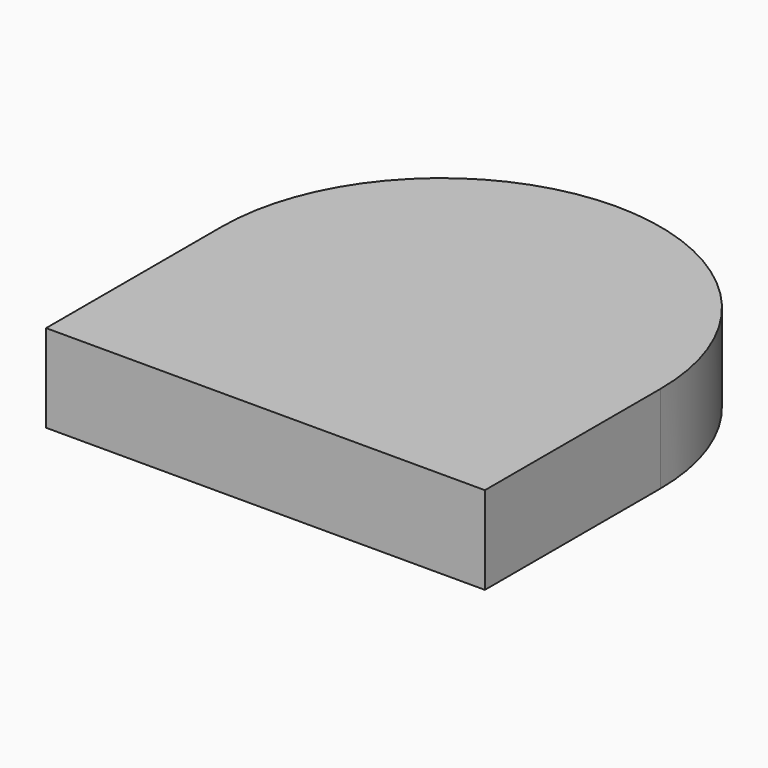
from build123d import *

# Parameters (mm, degrees)
SKETCH003_W  = 15
SKETCH003_H  = 3
PAD002_DEPTH = 6


with BuildPart() as obj1:
    # Sketch003 → Revolution (revolve)
    with BuildSketch(Plane.XZ):
        with Locations((7.5, 1.5)):
            Rectangle(SKETCH003_W, SKETCH003_H)
    revolve(axis=Axis((0, 0, 0), (0, 0, 1)))


with BuildPart() as part_mirroring:
    # Part__Mirroring: instance of obj1
    add(obj1.part.mirror(Plane(origin=(0, 0, 0), x_dir=(0, 1, 0), z_dir=(0, 0, 1))))


with BuildPart() as obj2:
    # Fusion001 base: copy of obj1
    add(obj1.part)

    # Fusion001: union Part__Mirroring
    add(part_mirroring.part)

    # Sketch004 → Pad002 (new body)
    with BuildSketch(Plane.XY.offset(3)):
        with BuildLine():
            Line((15, 0), (15, -15))
            Line((15, -15), (-15, -15))
            Line((-15, -15), (-15, 0))
            Line((-15, 0), (-7, 0))
            ThreePointArc((-7, 0), (0, -7), (7, 0))
            Line((7, 0), (15, 0))
        make_face()
    extrude(amount=-PAD002_DEPTH)


solid = obj2.part
